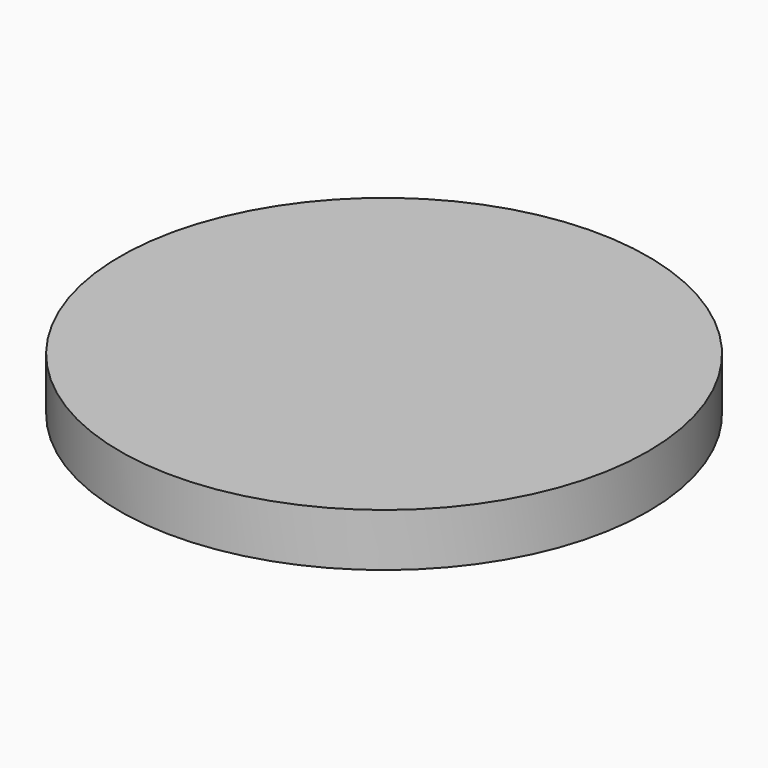
from build123d import *

# Parameters (mm, degrees)
SKETCH_R   = 11.625
SKETCH_R_2 = 0.005
PAD_DEPTH  = 2.33


with BuildPart() as part:
    # Sketch → Pad (new body)
    with BuildSketch(Plane.XY):
        Circle(SKETCH_R)
        Circle(SKETCH_R_2, mode=Mode.SUBTRACT)
    extrude(amount=PAD_DEPTH)


solid = part.part
